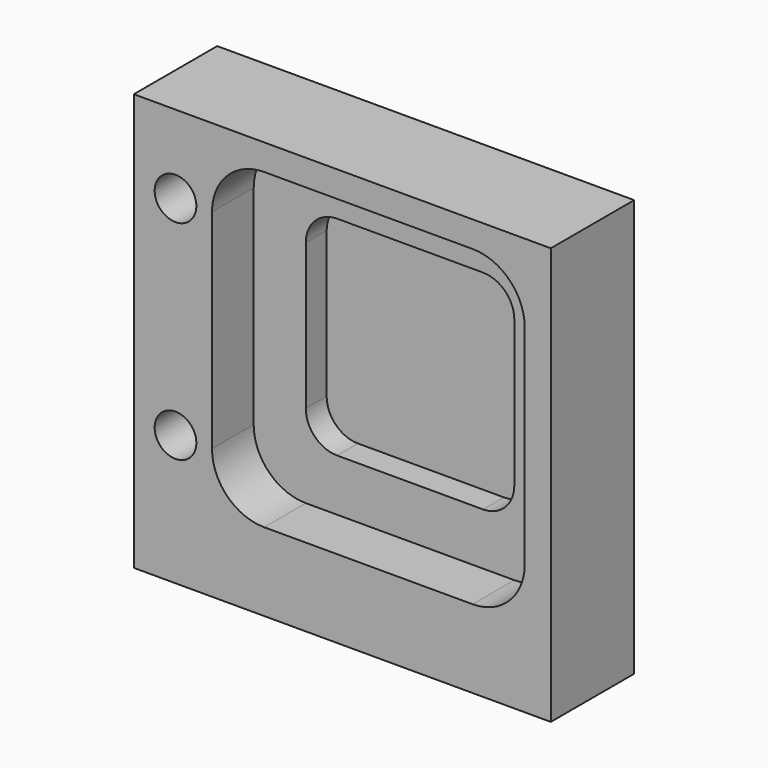
from build123d import *

# Parameters (mm, degrees)
F0_W     = 80
F0_H     = 80
F1_DEPTH = 20
F3_DEPTH = 10
F5_DEPTH = 5
F6_R     = 4
F7_DEPTH = 15


with BuildPart() as f1:
    # F0 (on Front) → F1 (new body)
    with BuildSketch(Plane.XZ):
        with Locations((-40, 40)):
            Rectangle(F0_W, F0_H)
    extrude(amount=F1_DEPTH)

    # F2 (on face) → F3 (cut)
    with BuildSketch(Plane.XZ.offset(20)):
        with BuildLine():
            Line((-15, 75), (-55, 75))
            ThreePointArc((-55, 75), (-62.071068, 72.071068), (-65, 65))
            Line((-65, 65), (-65, 25))
            ThreePointArc((-65, 25), (-62.071068, 17.928932), (-55, 15))
            Line((-55, 15), (-15, 15))
            ThreePointArc((-15, 15), (-7.928932, 17.928932), (-5, 25))
            Line((-5, 25), (-5, 65))
            ThreePointArc((-5, 65), (-7.928932, 72.071068), (-15, 75))
        make_face()
    extrude(amount=-F3_DEPTH, mode=Mode.SUBTRACT)

    # F4 (on face) → F5 (cut)
    with BuildSketch(Plane.XZ.offset(10)):
        with BuildLine():
            Line((-21, 65), (-49, 65))
            ThreePointArc((-49, 65), (-53.242641, 63.242641), (-55, 59))
            Line((-55, 59), (-55, 31))
            ThreePointArc((-55, 31), (-53.242641, 26.757359), (-49, 25))
            Line((-49, 25), (-21, 25))
            ThreePointArc((-21, 25), (-16.757359, 26.757359), (-15, 31))
            Line((-15, 31), (-15, 59))
            ThreePointArc((-15, 59), (-16.757359, 63.242641), (-21, 65))
        make_face()
    extrude(amount=-F5_DEPTH, mode=Mode.SUBTRACT)

    # F6 (on face) → F7 (cut)
    with BuildSketch(Plane.XZ.offset(20)):
        with Locations((-72, 65)):
            Circle(F6_R)
        with Locations((-72, 25)):
            Circle(F6_R)
    extrude(amount=-F7_DEPTH, mode=Mode.SUBTRACT)


solid = f1.part
